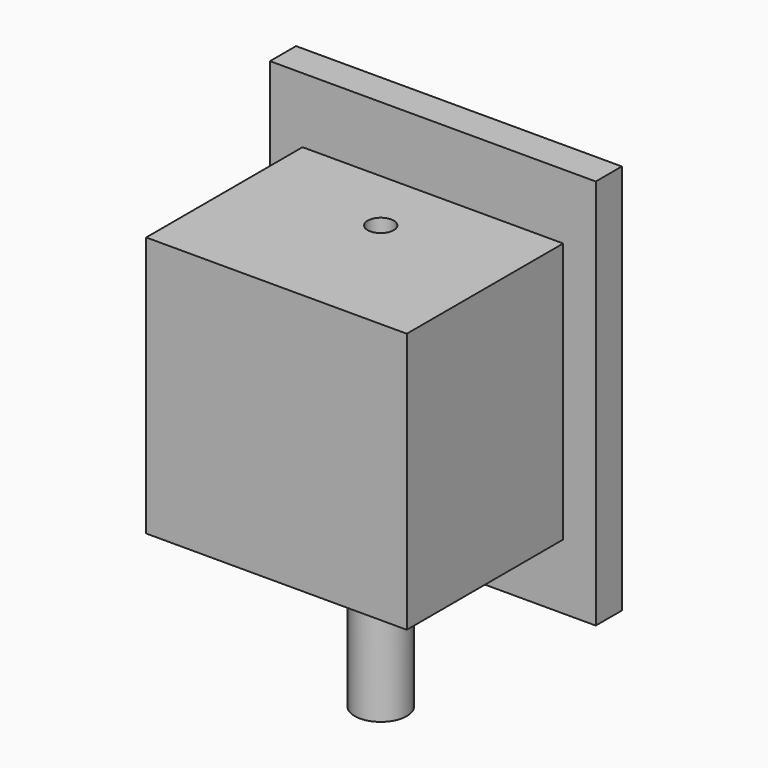
from build123d import *

# Parameters (mm, degrees)
F0_W     = 40
F0_H     = 40
F1_DEPTH = 30
F2_R     = 4
F2_R_2   = 2
F3_DEPTH = 25
F4_DEPTH = 40
F6_DEPTH = 25


with BuildPart() as f1:
    # F0 (on Front) → F1 (new body)
    with BuildSketch(Plane.XZ):
        Rectangle(F0_W, F0_H)
    extrude(amount=F1_DEPTH)

    # F2 (on face) → F3 (join)
    with BuildSketch(Plane(origin=(0, 0, -20), x_dir=(1, 0, 0), z_dir=(0, 0, -1))):
        with Locations((0, 10)):
            Circle(F2_R)
        with Locations((0, 10)):
            Circle(F2_R_2, mode=Mode.SUBTRACT)
    extrude(amount=F3_DEPTH)

    # F4 (cut): a face of the model
    f4_faces = [f1.faces().sort_by_distance(p)[0] for p in [
        (0, -10, -20),
    ]]
    extrude(f4_faces, amount=-F4_DEPTH, mode=Mode.SUBTRACT)

    # F5 (on Right) → F6 (join, symmetric)
    with BuildSketch(Plane.YZ):
        Polygon((0, 30), (0, 0), (0, -30), (5, -30), (5, 30), align=None)
    extrude(amount=F6_DEPTH, both=True)


solid = f1.part
